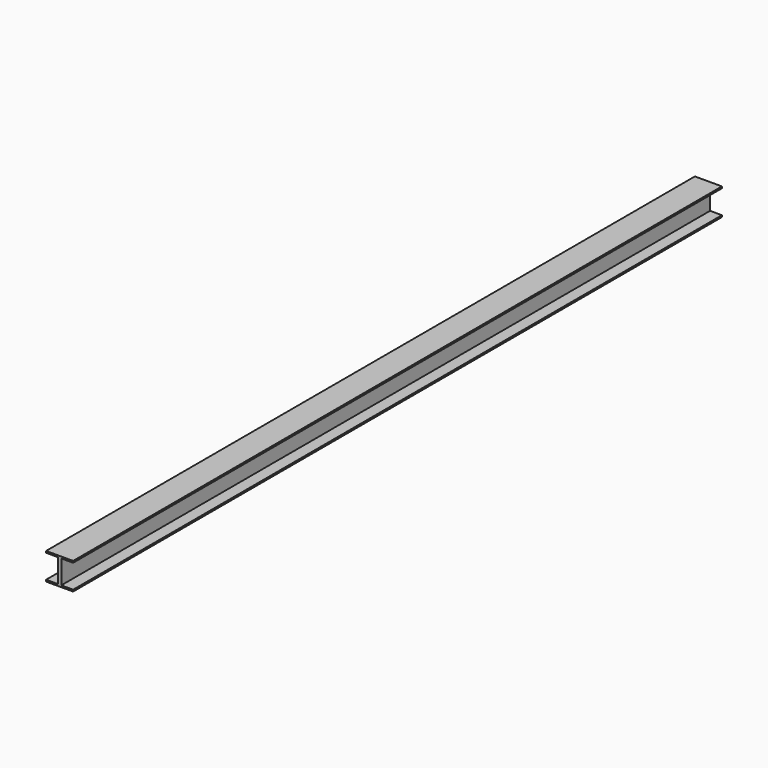
from build123d import *

# Parameters (mm, degrees)
F0_W     = 44.45
F0_H     = 6.35
F0_W_2   = 6.35
F0_H_2   = 88.9
F1_DEPTH = 3048


with BuildPart() as f1:
    # F0 (on Front) → F1 (new body)
    with BuildSketch(Plane.XZ):
        with Locations((22.225, 98.425)):
            Rectangle(F0_W, F0_H)
        with Locations((47.625, 98.425)):
            Rectangle(F0_W_2, F0_H)
        with Locations((53.975, 98.425)):
            Rectangle(F0_W_2, F0_H)
        with Locations((79.375, 98.425)):
            Rectangle(F0_W, F0_H)
        with Locations((53.975, 50.8)):
            Rectangle(F0_W_2, F0_H_2)
        with Locations((47.625, 50.8)):
            Rectangle(F0_W_2, F0_H_2)
        Polygon((0, 6.35), (0, 0), (50.8, 0), (50.8, 6.35), (44.45, 6.35), align=None)
        Polygon((50.8, 6.35), (50.8, 0), (101.6, 0), (101.6, 6.35), (57.15, 6.35), align=None)
    extrude(amount=F1_DEPTH)


solid = f1.part
